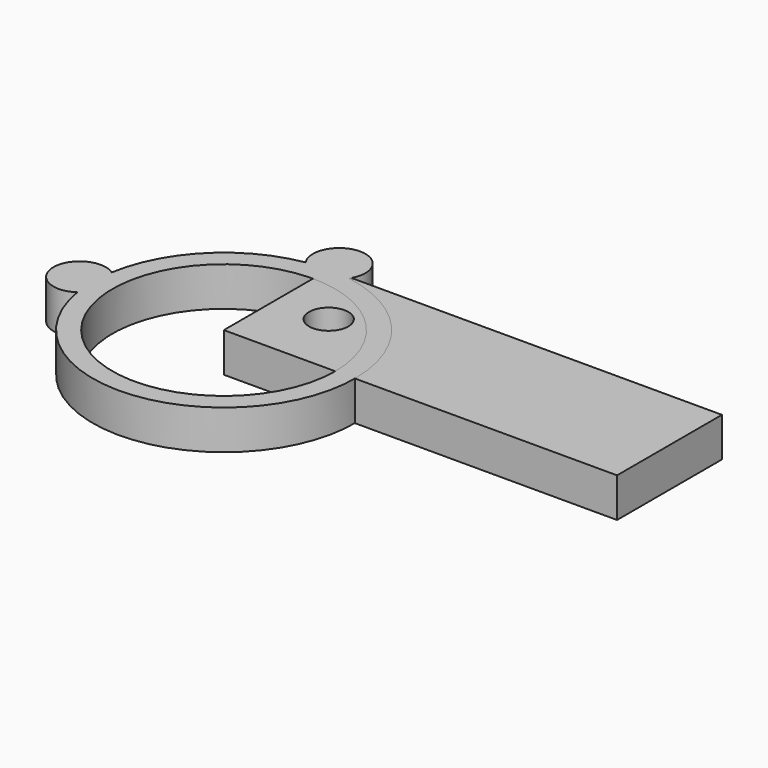
from build123d import *

# Parameters (mm, degrees)
CYLINDER_R        = 1.5
CYLINDER_DEPTH    = 10
BOX_W             = 30
BOX_H             = 10
BOX_DEPTH         = 3
CYLINDER004_R     = 2
CYLINDER004_DEPTH = 3
CYLINDER003_R     = 2
CYLINDER003_DEPTH = 3
CYLINDER002_R     = 8.5
CYLINDER002_DEPTH = 10
CYLINDER001_R     = 10
CYLINDER001_DEPTH = 3


with BuildPart() as cylinder:
    # Cylinder → Cylinder (new body)
    with BuildSketch(Plane(origin=(4, 5, 0), x_dir=(1, 0, 0), z_dir=(0, 0, 1))):
        Circle(CYLINDER_R)
    extrude(amount=CYLINDER_DEPTH)


with BuildPart() as cut:
    # Box → Box (new body)
    with BuildSketch(Plane.XY):
        with Locations((15, 5)):
            Rectangle(BOX_W, BOX_H)
    extrude(amount=BOX_DEPTH)

    # Cut: cut Cylinder
    add(cylinder.part, mode=Mode.SUBTRACT)


with BuildPart() as cylinder004:
    # Cylinder004 → Cylinder004 (new body)
    with BuildSketch(Plane(origin=(-11, 0, 0), x_dir=(1, 0, 0), z_dir=(0, 0, 1))):
        Circle(CYLINDER004_R)
    extrude(amount=CYLINDER004_DEPTH)


with BuildPart() as cylinder003:
    # Cylinder003 → Cylinder003 (new body)
    with BuildSketch(Plane(origin=(0, 11, 0), x_dir=(1, 0, 0), z_dir=(0, 0, 1))):
        Circle(CYLINDER003_R)
    extrude(amount=CYLINDER003_DEPTH)


with BuildPart() as cylinder002:
    # Cylinder002 → Cylinder002 (new body)
    with BuildSketch(Plane.XY):
        Circle(CYLINDER002_R)
    extrude(amount=CYLINDER002_DEPTH)


with BuildPart() as obj1:
    # Cylinder001 → Cylinder001 (new body)
    with BuildSketch(Plane.XY):
        Circle(CYLINDER001_R)
    extrude(amount=CYLINDER001_DEPTH)

    # Cut001: cut Cylinder002
    add(cylinder002.part, mode=Mode.SUBTRACT)

    # Fusion: union Cylinder004, Cylinder003
    add(cylinder004.part)
    add(cylinder003.part)


solid = Compound([cut.part, obj1.part])
